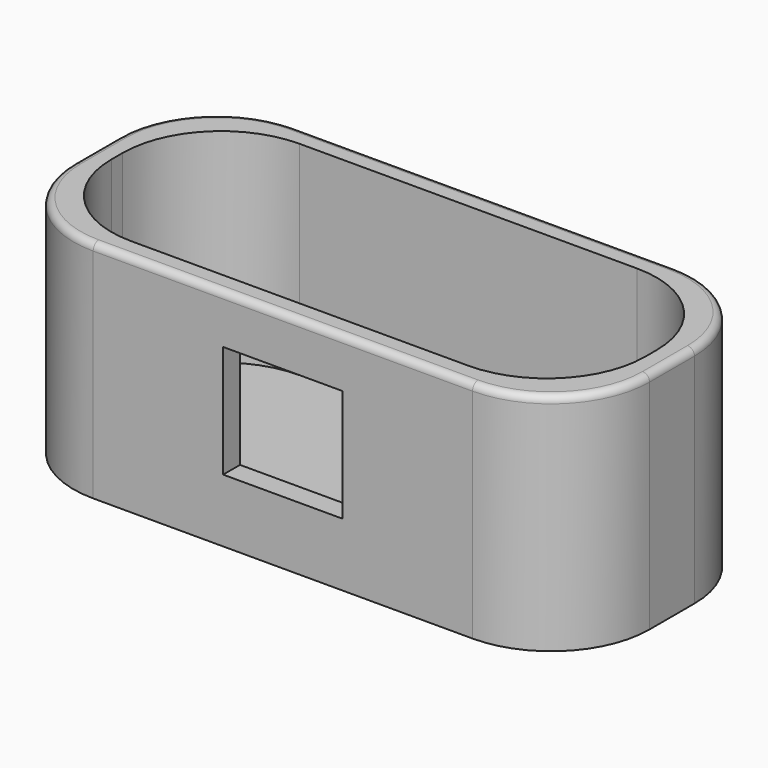
from build123d import *

# Parameters (mm, degrees)
SKETCH_W        = 82
SKETCH_H        = 36
PAD_DEPTH       = 32
SKETCH001_W     = 76
SKETCH001_H     = 30
POCKET_DEPTH    = 29
FILLET_R        = 14
SKETCH002_W     = 17
SKETCH002_H     = 16
POCKET001_DEPTH = 8
SKETCH003_W     = 18
SKETCH003_H     = 8
POCKET002_DEPTH = 5
SKETCH004_W     = 2.5
SKETCH004_H     = 15
PAD001_DEPTH    = 22
SKETCH005_R     = 2.6
POCKET003_DEPTH = 12
FILLET001_R     = 1
FILLET002_R     = 7
FILLET003_R     = 3
FILLET004_R     = 1
CHAMFER_SIZE    = 1


with BuildPart() as part:
    # Sketch → Pad (new body)
    with BuildSketch(Plane.XY):
        Rectangle(SKETCH_W, SKETCH_H)
    extrude(amount=PAD_DEPTH)

    # Sketch001 (on Face6 of Pad) → Pocket (cut)
    with BuildSketch(Plane.XY.offset(32)):
        Rectangle(SKETCH001_W, SKETCH001_H)
    extrude(amount=-POCKET_DEPTH, mode=Mode.SUBTRACT)

    # Fillet
    fillet_edges = [part.edges().sort_by_distance(p)[0] for p in [
        (-41, 18, 16),
        (-38, 15, 17.5),
        (-41, -18, 16),
        (-38, -15, 17.5),
        (41, 18, 16),
        (38, 15, 17.5),
        (41, -18, 16),
        (38, -15, 17.5),
    ]]
    fillet(fillet_edges, radius=FILLET_R)

    # Sketch002 → Pocket001 (cut)
    with BuildSketch(Plane(origin=(0, -15, 0), x_dir=(-1, 0, 0), z_dir=(0, 1, 0))):
        with Locations((0, 17)):
            Rectangle(SKETCH002_W, SKETCH002_H)
    extrude(amount=-POCKET001_DEPTH, mode=Mode.SUBTRACT)

    # Sketch003 (on Face2 of Pocket001) → Pocket002 (cut)
    with BuildSketch(Plane(origin=(0, 0, 0), x_dir=(1, 0, 0), z_dir=(0, 0, -1))):
        with Locations((26, 2)):
            Rectangle(SKETCH003_W, SKETCH003_H)
    extrude(amount=-POCKET002_DEPTH, mode=Mode.SUBTRACT)

    # Sketch004 (on Face1 of Pocket002) → Pad001 (join)
    with BuildSketch(Plane(origin=(0, 18, 0), x_dir=(-1, 0, 0), z_dir=(0, 1, 0))):
        with Locations((2.75, 7.5)):
            Rectangle(SKETCH004_W, SKETCH004_H)
        with Locations((-2.75, 7.5)):
            Rectangle(SKETCH004_W, SKETCH004_H)
    extrude(amount=PAD001_DEPTH)

    # Sketch005 (on Face8 of Pad001) → Pocket003 (cut)
    with BuildSketch(Plane.YZ.offset(4)):
        with Locations((32, 7.5)):
            Circle(SKETCH005_R)
    extrude(amount=-POCKET003_DEPTH, mode=Mode.SUBTRACT)

    # Fillet001
    fillet001_edges = [part.edges().sort_by_distance(p)[0] for p in [
        (-36.899495, 13.899495, 32),
        (-41, 0, 32),
        (-36.899495, -13.899495, 32),
        (0, -18, 32),
        (36.899495, -13.899495, 32),
        (41, 0, 32),
        (36.899495, 13.899495, 32),
        (0, 18, 32),
    ]]
    fillet(fillet001_edges, radius=FILLET001_R)

    # Fillet002
    fillet002_edges = [part.edges().sort_by_distance(p)[0] for p in [
        (-2.75, 40, 15),
        (2.75, 40, 15),
        (-2.75, 40, 0),
        (2.75, 40, 0),
    ]]
    fillet(fillet002_edges, radius=FILLET002_R)

    # Fillet003
    fillet003_edges = [part.edges().sort_by_distance(p)[0] for p in [
        (4, 18, 7.5),
        (-4, 18, 7.5),
    ]]
    fillet(fillet003_edges, radius=FILLET003_R)

    # Fillet004
    fillet004_edges = [part.edges().sort_by_distance(p)[0] for p in [
        (-1.5, 18, 7.5),
        (1.5, 18, 7.5),
    ]]
    fillet(fillet004_edges, radius=FILLET004_R)

    # Chamfer
    chamfer_edges = [part.edges().sort_by_distance(p)[0] for p in [
        (0, -15, 25),
    ]]
    chamfer(chamfer_edges, length=CHAMFER_SIZE)


solid = part.part
